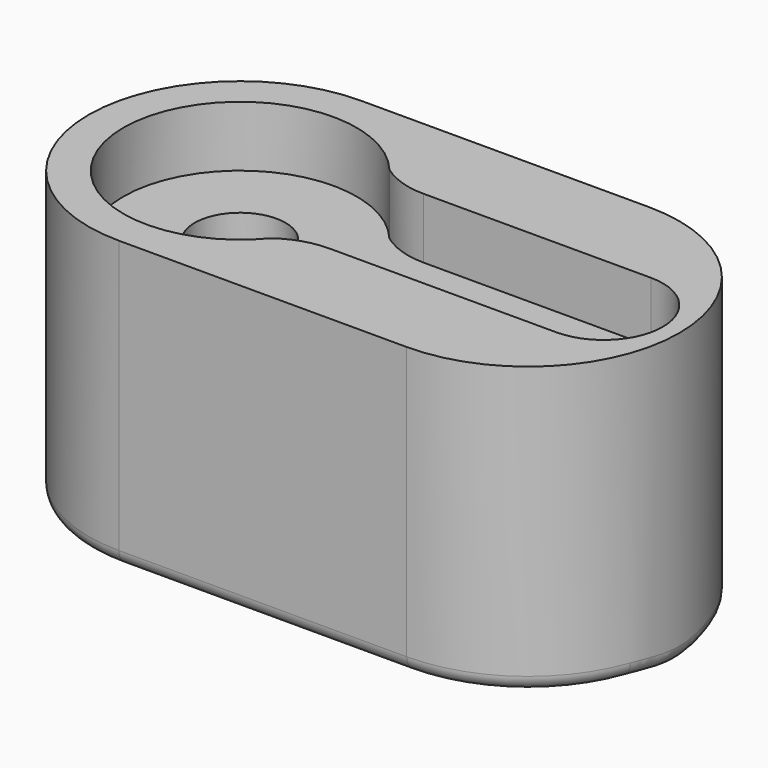
from build123d import *

# Parameters (mm, degrees)
PAD_DEPTH       = 4
PAD001_DEPTH    = 2
SKETCH002_R     = 3
SKETCH002_R_2   = 1.25
POCKET_DEPTH    = 2.001
PAD002_DEPTH    = 13
CHAMFER_SIZE    = 0.6
CHAMFER001_SIZE = 0.6
CHAMFER002_SIZE = 0.6
CHAMFER003_SIZE = 0.6
FILLET_R        = 1


with BuildPart() as part:
    # Sketch → Pad (new body)
    with BuildSketch(Plane.XY):
        with BuildLine():
            ThreePointArc((0, 10), (-10, 0), (0, -10))
            Line((0, -10), (19, -10))
            ThreePointArc((19, -10), (29, 0), (19, 10))
            Line((0, 10), (19, 10))
        make_face()
        with BuildLine():
            Line((9, 3.9), (24, 3.9))
            ThreePointArc((24, -3.9), (27.9, 0), (24, 3.9))
            Line((9, -3.9), (24, -3.9))
            ThreePointArc((9, -3.9), (7.389325, -4.156777), (5.938336, -4.90165))
            ThreePointArc((5.938336, 4.90165), (-7.7, 0), (5.938336, -4.90165))
            ThreePointArc((5.938336, 4.90165), (7.389325, 4.156777), (9, 3.9))
        make_face(mode=Mode.SUBTRACT)
    extrude(amount=PAD_DEPTH)

    # Sketch001 → Pad001 (join)
    with BuildSketch(Plane.XY):
        with BuildLine():
            ThreePointArc((0, 10), (-10, 0), (0, -10))
            Line((0, -10), (19, -10))
            ThreePointArc((19, -10), (29, 0), (19, 10))
            Line((0, 10), (19, 10))
        make_face()
    extrude(amount=-PAD001_DEPTH)

    # Sketch002 → Pocket (cut, through all)
    with BuildSketch(Plane.XY):
        Circle(SKETCH002_R)
        with Locations((24, 0)):
            Circle(SKETCH002_R_2)
        with Locations((20, 0)):
            Circle(SKETCH002_R_2)
    extrude(amount=-POCKET_DEPTH, mode=Mode.SUBTRACT)

    # Sketch003 → Pad002 (join)
    with BuildSketch(Plane.XY.offset(-2)):
        with BuildLine():
            ThreePointArc((0, 10), (-10, 0), (0, -10))
            Line((0, -10), (19, -10))
            ThreePointArc((19, -10), (29, 0), (19, 10))
            Line((0, 10), (19, 10))
        make_face()
        with BuildLine():
            Line((-7, -1.427009), (-7, 1.427009))
            Line((-7, 1.427009), (-3.195879, 1.427009))
            ThreePointArc((3.160298, 1.504166), (-0.042483, 3.499742), (-3.195879, 1.427009))
            Line((3.160298, 1.504166), (16.293582, 1.504166))
            ThreePointArc((22.000011, 3.464103), (18.700656, 3.783088), (16.293582, 1.504166))
            ThreePointArc((22.000011, -3.464103), (27.999995, 0), (22.000011, 3.464103))
            ThreePointArc((16.290212, -1.495834), (18.696407, -3.781626), (22.000011, -3.464103))
            Line((3.16425, -1.495834), (16.290212, -1.495834))
            ThreePointArc((-3.195879, -1.427009), (-0.037873, -3.499795), (3.16425, -1.495834))
            Line((-3.195879, -1.427009), (-7, -1.427009))
        make_face(mode=Mode.SUBTRACT)
    extrude(amount=-PAD002_DEPTH)

    # Chamfer
    chamfer_edges = [part.edges().sort_by_distance(p)[0] for p in [
        (9.727231, -1.495834, -15),
        (9.72694, 1.504166, -15),
    ]]
    chamfer(chamfer_edges, length=CHAMFER_SIZE)

    # Chamfer001
    chamfer001_edges = [part.edges().sort_by_distance(p)[0] for p in [
        (19.018709, -3.877772, -15),
        (27.999995, 0, -15),
        (19.023455, 3.87897, -15),
        (-0.392985, 3.477868, -15),
        (-0.387811, -3.478448, -15),
    ]]
    chamfer(chamfer001_edges, length=CHAMFER001_SIZE)

    # Chamfer002
    chamfer002_edges = [part.edges().sort_by_distance(p)[0] for p in [
        (-5.421825, -1.427009, -15),
    ]]
    chamfer(chamfer002_edges, length=CHAMFER002_SIZE)

    # Chamfer003
    chamfer003_edges = [part.edges().sort_by_distance(p)[0] for p in [
        (-5.421825, 1.427009, -15),
        (-7, 0, -15),
        (-7, -1.727009, -15),
    ]]
    chamfer(chamfer003_edges, length=CHAMFER003_SIZE)

    # Fillet
    fillet_edges = [part.edges().sort_by_distance(p)[0] for p in [
        (9.5, 10, -15),
        (29, 0, -15),
        (9.5, -10, -15),
        (-10, 0, -15),
    ]]
    fillet(fillet_edges, radius=FILLET_R)


solid = part.part
